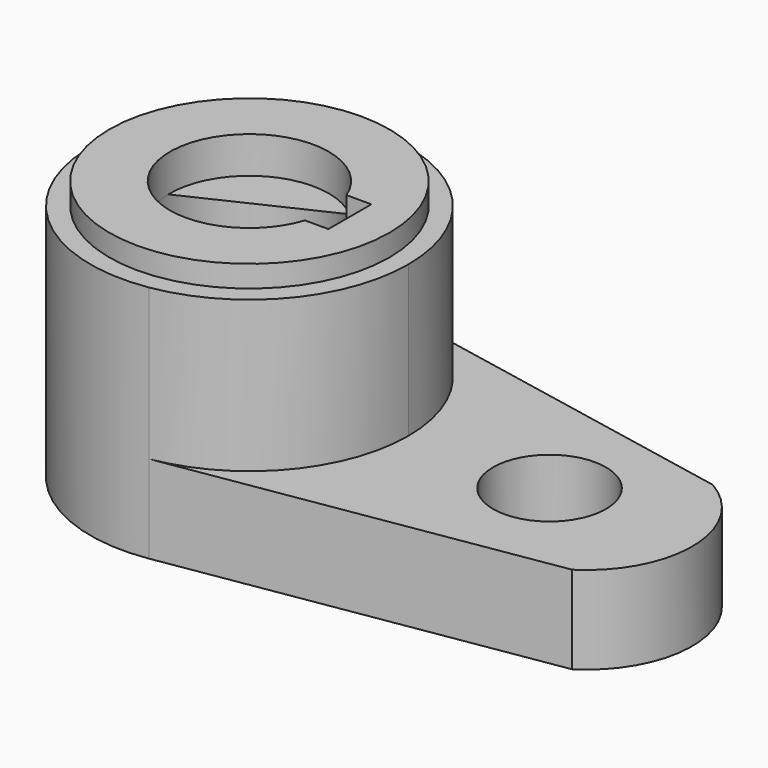
from build123d import *

# Parameters (mm, degrees)
F1_DEPTH  = 15.7734
F0_R      = 25.185936
F2_DEPTH  = 40.2336
F3_DEPTH  = 42.926
F2_FACE_R = 25.185936
F4_DEPTH  = 6.604


with BuildPart() as f1:
    # F0 (on Top) → F1 (new body)
    with BuildSketch(Plane.XY):
        with BuildLine():
            ThreePointArc((5.513996, 28.037947), (22.069131, 18.151697), (28.575, 0))
            ThreePointArc((28.575, 0), (21.749454, -18.533534), (4.533573, -28.21307))
            Line((4.533573, -28.21307), (71.959509, -17.378361))
            ThreePointArc((71.959509, -17.378361), (80.707503, -0.935043), (71.249342, 15.110308))
            Line((71.249342, 15.110308), (5.513996, 28.037947))
        make_face()
        with BuildLine():
            ThreePointArc((64.135, 0), (53.975, -10.16), (43.815, 0))
            ThreePointArc((43.815, 0), (53.975, 10.16), (64.135, 0))
        make_face(mode=Mode.SUBTRACT)
    extrude(amount=F1_DEPTH)

    # F0 (on Top) → F2 (join)
    with BuildSketch(Plane.XY):
        with BuildLine():
            ThreePointArc((4.533573, -28.21307), (21.749454, -18.533534), (28.575, 0))
            ThreePointArc((28.575, 0), (22.069131, 18.151697), (5.513996, 28.037947))
            ThreePointArc((5.513996, 28.037947), (-28.570661, 0.49797), (4.533573, -28.21307))
        make_face()
        Circle(F0_R, mode=Mode.SUBTRACT)
        Circle(F0_R)
        with BuildLine():
            ThreePointArc((13.568395, -4.475636), (-14.28265, -0.372259), (13.316828, 5.176364))
            Line((13.316828, 5.176364), (17.791577, 5.176364))
            Line((17.791577, 5.176364), (17.791577, 0))
            Line((17.791577, 0), (17.791577, -4.475636))
            Line((17.791577, -4.475636), (13.568395, -4.475636))
        make_face(mode=Mode.SUBTRACT)
    extrude(amount=F2_DEPTH)

    # F0 (on Top) → F3 (join)
    with BuildSketch(Plane.XY):
        with BuildLine():
            ThreePointArc((4.533573, -28.21307), (21.749454, -18.533534), (28.575, 0))
            ThreePointArc((28.575, 0), (22.069131, 18.151697), (5.513996, 28.037947))
            ThreePointArc((5.513996, 28.037947), (-28.570661, 0.49797), (4.533573, -28.21307))
        make_face()
        Circle(F0_R, mode=Mode.SUBTRACT)
    extrude(amount=F3_DEPTH)

    # F2_face (on face) → F4 (join)
    with BuildSketch(Plane(origin=(-0.441482, -0.011183, 40.2336), x_dir=(1, 0, 0), z_dir=(0, 0, 1))):
        with Locations((0.441482, 0.011183)):
            Circle(F2_FACE_R)
        with BuildLine():
            Line((18.233059, -4.464452), (14.009877, -4.464452))
            ThreePointArc((14.009877, -4.464452), (-13.841168, -0.361076), (13.75831, 5.187548))
            Line((13.75831, 5.187548), (18.233059, 5.187548))
            Line((18.233059, 5.187548), (18.233059, -4.464452))
        make_face(mode=Mode.SUBTRACT)
    extrude(amount=F4_DEPTH)


solid = f1.part
